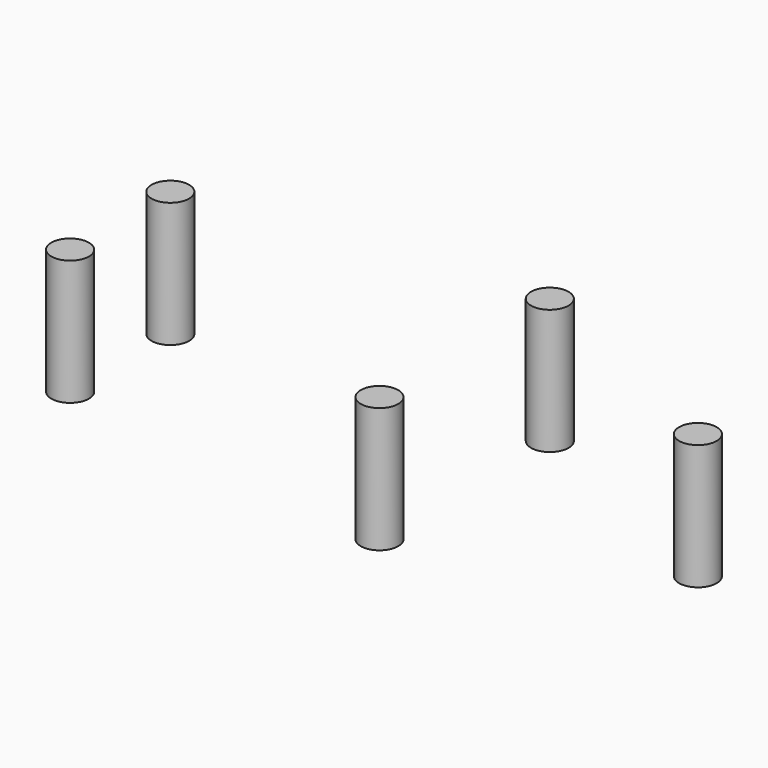
from build123d import *

# Parameters (mm, degrees)
CYLINDER148_R     = 3
CYLINDER148_DEPTH = 20
CYLINDER149_R     = 3
CYLINDER149_DEPTH = 20
CYLINDER152_R     = 3
CYLINDER152_DEPTH = 20
CYLINDER145_R     = 3
CYLINDER145_DEPTH = 20
CYLINDER155_R     = 3
CYLINDER155_DEPTH = 20


with BuildPart() as zylinder148:
    # Cylinder148 → Cylinder148 (new body)
    with BuildSketch(Plane(origin=(-63.5, -10, -7), x_dir=(1, 0, 0), z_dir=(0, 0, 1))):
        Circle(CYLINDER148_R)
    extrude(amount=CYLINDER148_DEPTH)


with BuildPart() as zylinder149:
    # Cylinder149 → Cylinder149 (new body)
    with BuildSketch(Plane(origin=(-8.5, -17, -7), x_dir=(1, 0, 0), z_dir=(0, 0, 1))):
        Circle(CYLINDER149_R)
    extrude(amount=CYLINDER149_DEPTH)


with BuildPart() as zylinder152:
    # Cylinder152 → Cylinder152 (new body)
    with BuildSketch(Plane(origin=(-63.5, 10, -7), x_dir=(1, 0, 0), z_dir=(0, 0, 1))):
        Circle(CYLINDER152_R)
    extrude(amount=CYLINDER152_DEPTH)


with BuildPart() as zylinder145:
    # Cylinder145 → Cylinder145 (new body)
    with BuildSketch(Plane(origin=(-8.5, 17, -7), x_dir=(1, 0, 0), z_dir=(0, 0, 1))):
        Circle(CYLINDER145_R)
    extrude(amount=CYLINDER145_DEPTH)


with BuildPart() as fusion106:
    # Cylinder155 → Cylinder155 (new body)
    with BuildSketch(Plane(origin=(28.75, 0, -7), x_dir=(1, 0, 0), z_dir=(0, 0, 1))):
        Circle(CYLINDER155_R)
    extrude(amount=CYLINDER155_DEPTH)

    # Fusion106: union Zylinder148, Zylinder149, Zylinder152, Zylinder145
    add(zylinder148.part)
    add(zylinder149.part)
    add(zylinder152.part)
    add(zylinder145.part)


solid = fusion106.part
